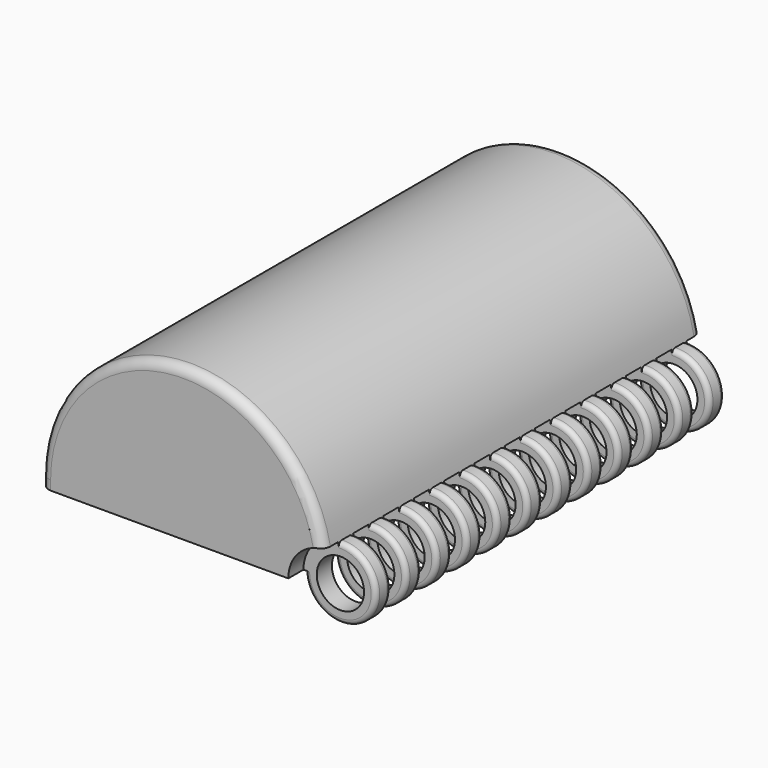
from build123d import *

# Parameters (mm, degrees)
F1_DEPTH  = 25
F2_T      = -2
F3_W      = 2
F3_H      = 46
F5_R      = 3.75
F5_R_2    = 2.5
F6_DEPTH  = 50
F7_R      = 2.5
F8_DEPTH  = 50.001
F10_W     = 2
F10_H     = 7.5
F11_DEPTH = 7.9
F12_R     = 0.5
F14_DEPTH = 2.1
F16_DEPTH = 2.3
F17_R     = 1


with BuildPart() as f1:
    # F0 (on Front) → F1 (new body, symmetric)
    with BuildSketch(Plane.XZ):
        with BuildLine():
            Line((-15, 1), (-15, 0))
            Line((-15, 0), (15, 0))
            Line((15, 0), (15, 1))
            ThreePointArc((15, 1), (0, 16), (-15, 1))
        make_face()
    extrude(amount=F1_DEPTH, both=True)

    # F2
    f2_openings = [f1.faces().sort_by_distance(p)[0] for p in [
        (0, 0, 0),
    ]]
    offset(amount=F2_T, openings=f2_openings)

    # F3 (on Top) → F4 (join, up to the next surface of F1)
    with BuildSketch(Plane.XY):
        with Locations((12, 0)):
            Rectangle(F3_W, F3_H)
    extrude(until=Until.NEXT)

    # F5 (on face) → F6 (join)
    with BuildSketch(Plane.XZ.offset(25)):
        with Locations((15, 0)):
            Circle(F5_R)
        with Locations((15, 0)):
            Circle(F5_R_2, mode=Mode.SUBTRACT)
    extrude(amount=-F6_DEPTH)

    # F7 (on face) → F8 (cut, through all)
    with BuildSketch(Plane.XZ.offset(25)):
        with Locations((15, 0)):
            Circle(F7_R)
    extrude(amount=-F8_DEPTH, mode=Mode.SUBTRACT)

    # F10 (on offset) → F11 (cut)
    with BuildSketch(Plane.YZ.offset(19)):
        with Locations((-24, 0)):
            Rectangle(F10_W, F10_H)
        with Locations((-20, 0)):
            Rectangle(F10_W, F10_H)
        with Locations((-16, 0)):
            Rectangle(F10_W, F10_H)
        with Locations((-12, 0)):
            Rectangle(F10_W, F10_H)
        with Locations((-8, 0)):
            Rectangle(F10_W, F10_H)
        with Locations((-4, 0)):
            Rectangle(F10_W, F10_H)
        Rectangle(F10_W, F10_H)
        with Locations((4, 0)):
            Rectangle(F10_W, F10_H)
        with Locations((8, 0)):
            Rectangle(F10_W, F10_H)
        with Locations((12, 0)):
            Rectangle(F10_W, F10_H)
        with Locations((16, 0)):
            Rectangle(F10_W, F10_H)
        with Locations((20, 0)):
            Rectangle(F10_W, F10_H)
        with Locations((24, 0)):
            Rectangle(F10_W, F10_H)
    extrude(amount=-F11_DEPTH, mode=Mode.SUBTRACT)

    # F12
    f12_edges = [f1.edges().sort_by_distance(p)[0] for p in [
        (17.73952, -21, -2.560767),
        (17.73952, -19, -2.560767),
        (17.73952, -17, -2.560767),
        (17.73952, -15, -2.560767),
        (17.73952, -13, -2.560767),
        (17.73952, -11, -2.560767),
        (17.73952, -9, -2.560767),
        (17.73952, -7, -2.560767),
        (17.73952, -5, -2.560767),
        (17.73952, -3, -2.560767),
        (17.73952, -1, -2.560767),
        (17.73952, 1, -2.560767),
        (17.73952, 3, -2.560767),
        (17.73952, 5, -2.560767),
        (17.73952, 7, -2.560767),
        (17.73952, 9, -2.560767),
        (17.73952, 11, -2.560767),
        (17.73952, 13, -2.560767),
        (17.73952, 15, -2.560767),
        (17.73952, 17, -2.560767),
        (17.73952, 19, -2.560767),
        (17.73952, 21, -2.560767),
        (17.73952, 23, -2.560767),
        (17.73952, -23, -2.560767),
    ]]
    fillet(f12_edges, radius=F12_R)

    # F13 (on face) → F14 (join)
    with BuildSketch(Plane.XZ.offset(25)):
        with BuildLine():
            ThreePointArc((11.1, 0), (11.8865023181, 2.3486447549), (13.9287857357, 3.75))
            Line((13.9287857357, 3.75), (11.1, 3.75))
            Line((11.1, 3.75), (11.1, 0))
        make_face()
    extrude(amount=-F14_DEPTH)

    # F15 (on face) → F16 (join)
    with BuildSketch(Plane(origin=(0, 25, 0), x_dir=(-1, 0, 0), z_dir=(0, 1, 0))):
        with BuildLine():
            ThreePointArc((-13.9287857357, 3.75), (-11.8865023181, 2.3486447549), (-11.1, 0))
            Line((-11.1, 0), (-11.1, 3.75))
            Line((-11.1, 3.75), (-13.9287857357, 3.75))
        make_face()
    extrude(amount=-F16_DEPTH)

    # F17
    f17_edges = [f1.edges().sort_by_distance(p)[0] for p in [
        (-1.380864, -25, 15.936305),
        (-1.380864, 25, 15.936305),
    ]]
    fillet(f17_edges, radius=F17_R)


solid = f1.part
